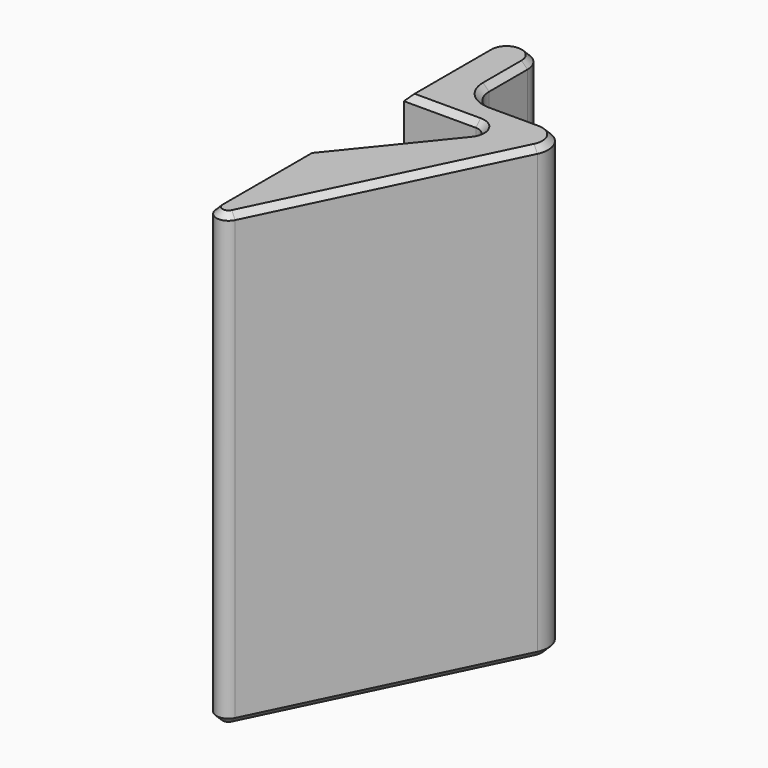
from build123d import *

# Parameters (mm, degrees)
PAD_DEPTH    = 75
CHAMFER_SIZE = 1


with BuildPart() as part:
    # Sketch → Pad (new body)
    with BuildSketch(Plane.XY):
        with BuildLine():
            Line((4, 27), (4, 10))
            Line((4, 10), (16, 10))
            ThreePointArc((17.55441, 6.741505), (17.80513, 8.861107), (16, 10))
            Line((17.55441, 6.741505), (4, -10))
            Line((4, -10), (4, -29.001949))
            ThreePointArc((4, -29.001949), (5.550868, -30.950867), (7.798281, -29.87727))
            Line((7.798281, -29.87727), (26.843334, 9.249358))
            ThreePointArc((26.843334, 9.249358), (26.638127, 13.121018), (23.246773, 15))
            Line((15, 15), (23.246773, 15))
            ThreePointArc((11, 19), (12.171573, 16.171573), (15, 15))
            Line((11, 27), (11, 19))
            ThreePointArc((11, 27), (7.5, 30.5), (4, 27))
        make_face()
    extrude(amount=PAD_DEPTH)

    # Chamfer
    chamfer_edges = [part.edges().sort_by_distance(p)[0] for p in [
        (7.5, 30.5, 75),
        (4, 18.5, 75),
        (10, 10, 75),
        (17.80513, 8.861107, 75),
        (10.777205, -1.629248, 75),
        (4, -19.500975, 75),
        (5.550868, -30.950867, 75),
        (17.320807, -10.313956, 75),
        (26.638127, 13.121018, 75),
        (19.123386, 15, 75),
        (12.171573, 16.171573, 75),
        (11, 23, 75),
        (7.5, 30.5, 0),
        (4, 18.5, 0),
        (10, 10, 0),
        (17.80513, 8.861107, 0),
        (10.777205, -1.629248, 0),
        (4, -19.500975, 0),
        (5.550868, -30.950867, 0),
        (17.320807, -10.313956, 0),
        (26.638127, 13.121018, 0),
        (19.123386, 15, 0),
        (12.171573, 16.171573, 0),
        (11, 23, 0),
    ]]
    chamfer(chamfer_edges, length=CHAMFER_SIZE)


solid = part.part
